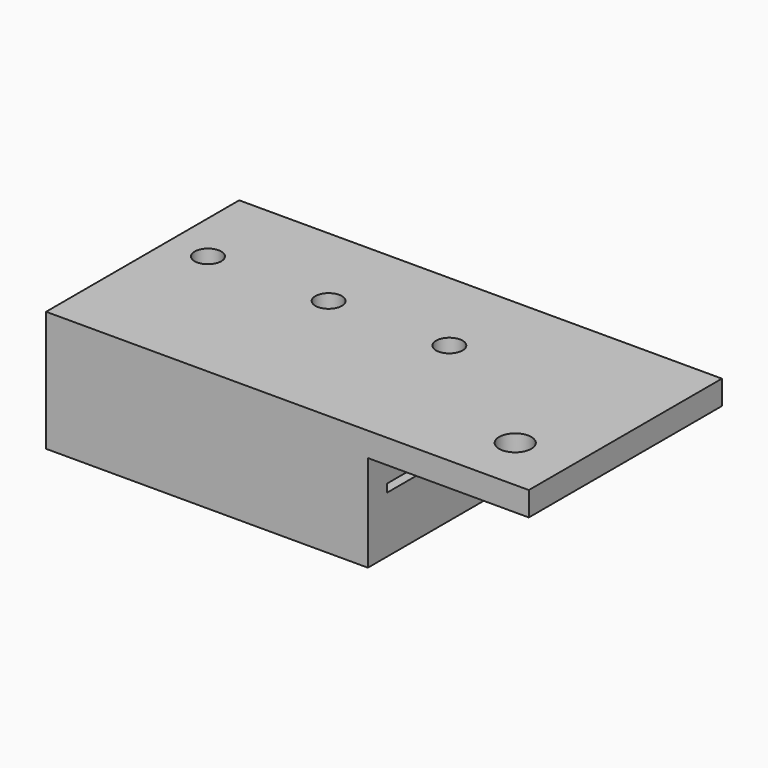
from build123d import *

# Parameters (mm, degrees)
F0_W     = 60
F0_H     = 15
F1_DEPTH = 30
F3_DEPTH = 60.001
F4_W     = 20
F4_H     = 12
F5_DEPTH = 30.001
F6_R     = 1.65
F7_DEPTH = 15.001
F8_R     = 2
F9_DEPTH = 15.001


with BuildPart() as f1:
    # F0 (on Front) → F1 (new body)
    with BuildSketch(Plane.XZ):
        Rectangle(F0_W, F0_H)
    extrude(amount=F1_DEPTH)

    # F2 (on face) → F3 (cut, through all)
    with BuildSketch(Plane(origin=(-30, 0, 0), x_dir=(0, -1, 0), z_dir=(-1, 0, 0))):
        Polygon((8.1, 3.25), (0, 3.25), (0, -3.25), (2, -3.25), (2, -2.25), (5.6, -2.25), (5.6, -3.25), (8.1, -3.25), (8.1, -0.5), (27, -0.5), (27, 0.5), (8.1, 0.5), align=None)
    extrude(amount=-F3_DEPTH, mode=Mode.SUBTRACT)

    # F4 (on face) → F5 (cut, through all)
    with BuildSketch(Plane.XZ.offset(30)):
        with Locations((20, -1.5)):
            Rectangle(F4_W, F4_H)
    extrude(amount=-F5_DEPTH, mode=Mode.SUBTRACT)

    # F6 (on face) → F7 (cut, through all)
    with BuildSketch(Plane(origin=(0, 0, -7.5), x_dir=(1, 0, 0), z_dir=(0, 0, -1))):
        with Locations((5, 11.1)):
            Circle(F6_R)
        with Locations((-25, 11.1)):
            Circle(F6_R)
        with Locations((-10, 11.1)):
            Circle(F6_R)
    extrude(amount=-F7_DEPTH, mode=Mode.SUBTRACT)

    # F8 (on face) → F9 (cut, through all)
    with BuildSketch(Plane.XY.offset(7.5)):
        with Locations((22.77234, -23.078762)):
            Circle(F8_R)
    extrude(amount=-F9_DEPTH, mode=Mode.SUBTRACT)


solid = f1.part
